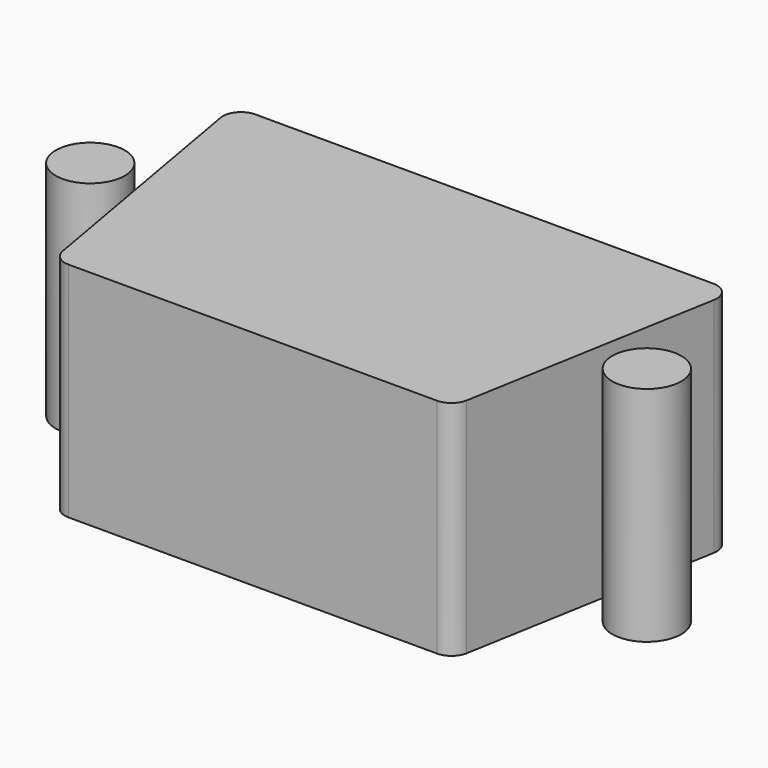
from build123d import *

# Parameters (mm, degrees)
CYLINDER_R        = 1.55
CYLINDER_DEPTH    = 10
PAD001_DEPTH      = 10
CYLINDER001_R     = 1.55
CYLINDER001_DEPTH = 10
FILLET004_R       = 0.81


with BuildPart() as cylinder:
    # Cylinder → Cylinder (new body)
    with BuildSketch(Plane(origin=(12.5, 0, -5), x_dir=(1, 0, 0), z_dir=(0, 0, 1))):
        Circle(CYLINDER_R)
    extrude(amount=CYLINDER_DEPTH)


with BuildPart() as panel_cutout_rear:
    # Sketch001 → Pad001 (new body)
    with BuildSketch(Plane.XY):
        Polygon((-11.25, 6.5), (11.25, 6.5), (8.957749, -6.5), (-8.957749, -6.5), align=None)
    extrude(amount=PAD001_DEPTH)


with BuildPart() as panel_cutout_rear_1:
    # Body001 placement: moved
    add(panel_cutout_rear.part.moved(Location((0, 0, -5))))


with BuildPart() as panel_cutout_rear001:
    # Cylinder001 → Cylinder001 (new body)
    with BuildSketch(Plane(origin=(-12.5, 0, -5), x_dir=(1, 0, 0), z_dir=(0, 0, 1))):
        Circle(CYLINDER001_R)
    extrude(amount=CYLINDER001_DEPTH)

    # Fusion: union Cylinder, Panel Cutout Rear
    add(cylinder.part)
    add(panel_cutout_rear_1.part)

    # Fillet004
    fillet004_edges = [panel_cutout_rear001.edges().sort_by_distance(p)[0] for p in [
        (-11.25, 6.5, 0),
        (11.25, 6.5, 0),
        (8.957749, -6.5, 0),
        (-8.957749, -6.5, 0),
    ]]
    fillet(fillet004_edges, radius=FILLET004_R)


solid = panel_cutout_rear001.part
